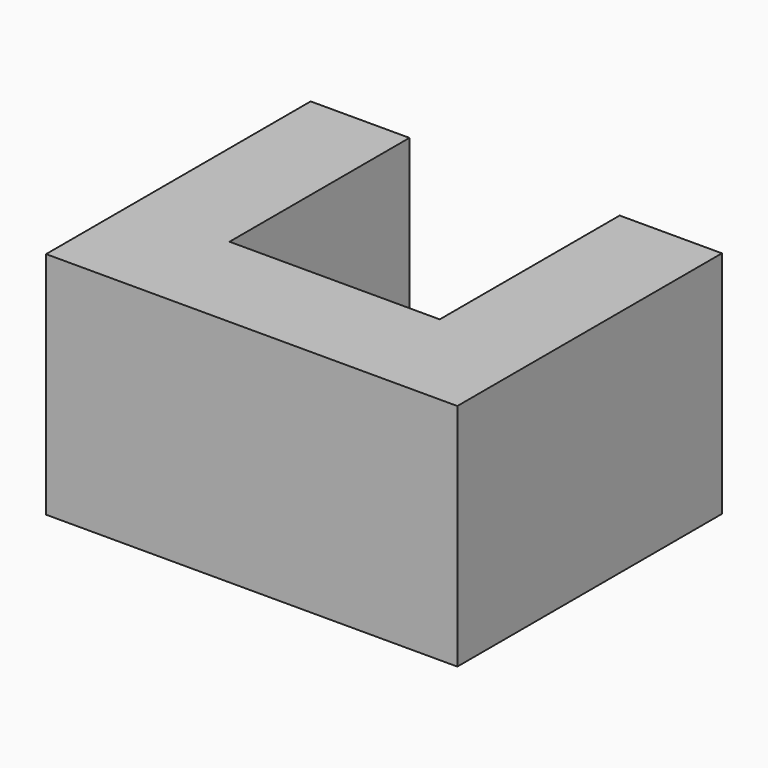
from build123d import *

# Parameters (mm, degrees)
F0_W     = 11.32265
F0_H     = 24.899843
F0_W_2   = 10.937313
F1_DEPTH = 25.4


with BuildPart() as f1:
    # F0 (on Top) → F1 (new body)
    with BuildSketch(Plane.XY):
        with Locations((17.104097, 18.307479)):
            Rectangle(F0_W, F0_H)
        Polygon((-11.828109, 5.857558), (-22.765422, 5.857558), (-22.765422, -5.857558), (22.765422, -5.857558), (22.765422, 5.857558), (11.442772, 5.857558), align=None)
        with Locations((-17.296765, 18.307479)):
            Rectangle(F0_W_2, F0_H)
    extrude(amount=F1_DEPTH)


solid = f1.part
